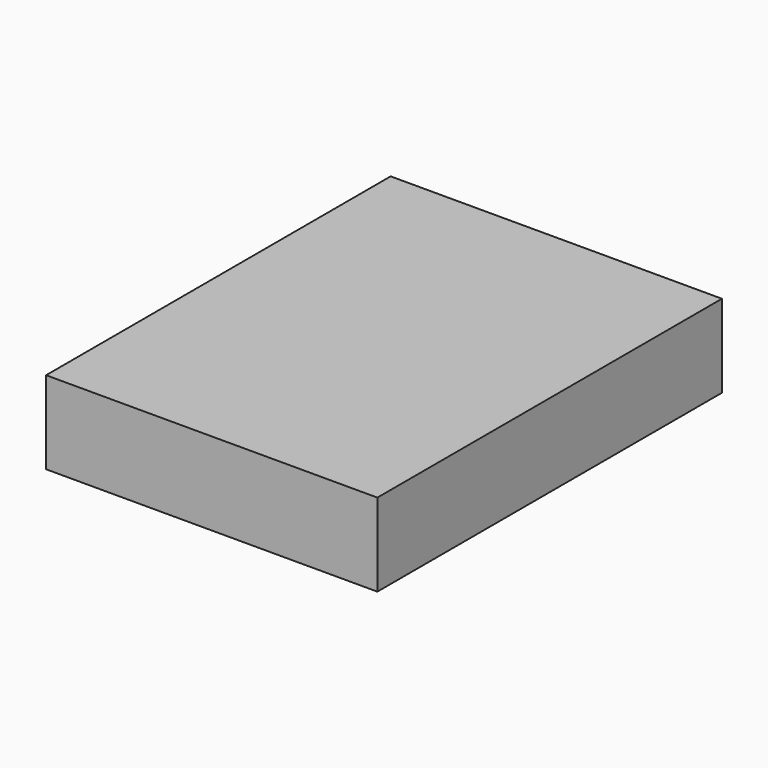
from build123d import *

# Parameters (mm, degrees)
SKETCH_W  = 20
SKETCH_H  = 26
PAD_DEPTH = 5


with BuildPart() as part:
    # Sketch → Pad (new body)
    with BuildSketch(Plane.XY):
        with Locations((-3.423907, 1.473154)):
            Rectangle(SKETCH_W, SKETCH_H)
    extrude(amount=PAD_DEPTH)


solid = part.part
